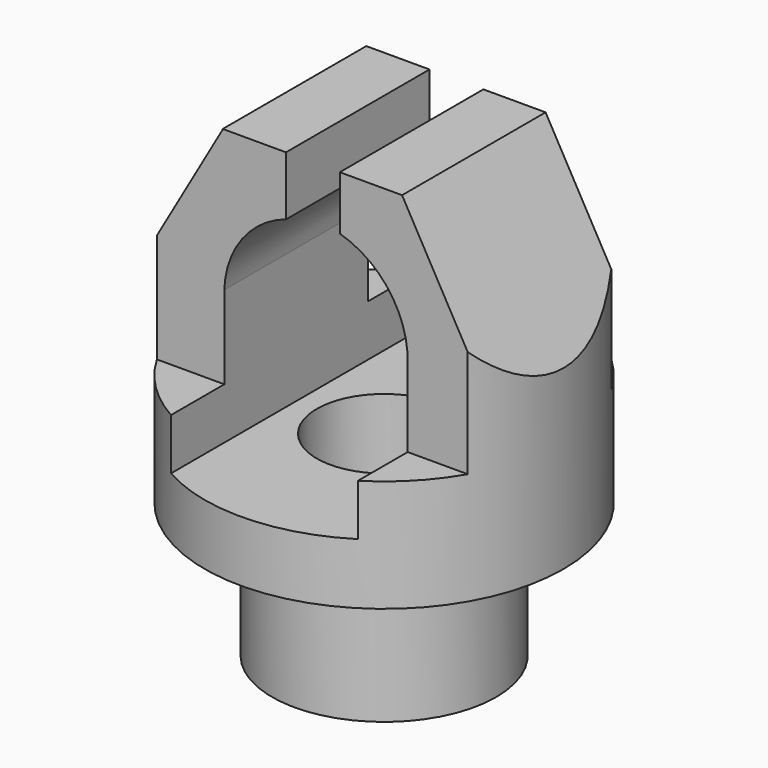
from build123d import *

# Parameters (mm, degrees)
PAD004_DEPTH    = 50
PAD003_DEPTH    = 50
BOX001_W        = 33
BOX001_H        = 20
BOX001_DEPTH    = 51
BOX_W           = 33
BOX_H           = 20
BOX_DEPTH       = 51
BOX002_W        = 33
BOX002_H        = 20
BOX002_DEPTH    = 51
BOX003_W        = 33
BOX003_H        = 20
BOX003_DEPTH    = 51
SKETCH_R        = 25
PAD_DEPTH       = 30
PAD002_DEPTH    = 50
SKETCH001_R     = 40
PAD001_DEPTH    = 75
SKETCH005_W     = 21.319589
SKETCH005_H     = 49.375387
POCKET_DEPTH    = 0.2
SKETCH006_R     = 15
POCKET001_DEPTH = 43.555516


with BuildPart() as pad004:
    # Sketch004 → Pad004 (new body, symmetric)
    with BuildSketch(Plane.XZ):
        Polygon((-40, 70), (-20, 104.849875), (-40, 104.849875), align=None)
    extrude(amount=PAD004_DEPTH, both=True)


with BuildPart() as pad003:
    # Sketch003 → Pad003 (new body, symmetric)
    with BuildSketch(Plane.XZ):
        Polygon((20, 105), (40, 69.438118), (40, 105), align=None)
    extrude(amount=PAD003_DEPTH, both=True)


with BuildPart() as cubo001:
    # Box001 → Box001 (new body)
    with BuildSketch(Plane(origin=(5, -40, 55), x_dir=(1, 0, 0), z_dir=(0, 0, 1))):
        with Locations((16.5, 10)):
            Rectangle(BOX001_W, BOX001_H)
    extrude(amount=BOX001_DEPTH)


with BuildPart() as cubo:
    # Box → Box (new body)
    with BuildSketch(Plane(origin=(5, 20, 55), x_dir=(1, 0, 0), z_dir=(0, 0, 1))):
        with Locations((16.5, 10)):
            Rectangle(BOX_W, BOX_H)
    extrude(amount=BOX_DEPTH)


with BuildPart() as cubo002:
    # Box002 → Box002 (new body)
    with BuildSketch(Plane(origin=(-38, -40, 55), x_dir=(1, 0, 0), z_dir=(0, 0, 1))):
        with Locations((16.5, 10)):
            Rectangle(BOX002_W, BOX002_H)
    extrude(amount=BOX002_DEPTH)


with BuildPart() as cubo003:
    # Box003 → Box003 (new body)
    with BuildSketch(Plane(origin=(-38, 20, 55), x_dir=(1, 0, 0), z_dir=(0, 0, 1))):
        with Locations((16.5, 10)):
            Rectangle(BOX003_W, BOX003_H)
    extrude(amount=BOX003_DEPTH)


with BuildPart() as pad:
    # Sketch → Pad (new body)
    with BuildSketch(Plane.XY):
        Circle(SKETCH_R)
    extrude(amount=PAD_DEPTH)


with BuildPart() as pad002:
    # Sketch002 → Pad002 (new body, symmetric)
    with BuildSketch(Plane(origin=(-81, 0, 6), x_dir=(1, 0, 0), z_dir=(0, -1, 0))):
        with BuildLine():
            Line((61.374028, 37.554516), (102.260882, 37.554516))
            Line((102.260882, 37.554516), (102.260882, 66.257331))
            ThreePointArc((102.260882, 66.257331), (98.26163, 79.156523), (87.211113, 86.919851))
            Line((87.211113, 86.919851), (87.11186, 102.554516))
            Line((87.11186, 102.554516), (75.11186, 102.554516))
            Line((75.11186, 102.554516), (75.158353, 85.860966))
            ThreePointArc((75.158353, 85.860966), (65.381997, 78.874221), (61.374028, 67.54603))
            Line((61.374028, 37.554516), (61.374028, 67.54603))
        make_face()
    extrude(amount=PAD002_DEPTH, both=True)


with BuildPart() as pocket001:
    # Pad001 base: copy of Pad
    add(pad.part)

    # Sketch001 → Pad001 (new body)
    with BuildSketch(Plane.XY.offset(30)):
        Circle(SKETCH001_R)
    extrude(amount=PAD001_DEPTH)

    # Cut: cut Pad002
    add(pad002.part, mode=Mode.SUBTRACT)

    # Fusion: union Pad
    add(pad.part)

    # Cut001: cut Cubo003
    add(cubo003.part, mode=Mode.SUBTRACT)

    # Cut002: cut Cubo002
    add(cubo002.part, mode=Mode.SUBTRACT)

    # Cut003: cut Cubo
    add(cubo.part, mode=Mode.SUBTRACT)

    # Cut004: cut Cubo001
    add(cubo001.part, mode=Mode.SUBTRACT)

    # Cut005: cut Pad003
    add(pad003.part, mode=Mode.SUBTRACT)

    # Cut006: cut Pad004
    add(pad004.part, mode=Mode.SUBTRACT)

    # Sketch005 → Pocket (cut)
    with BuildSketch(Plane.XY.offset(105)):
        with Locations((-30.63901, -1.115778)):
            Rectangle(SKETCH005_W, SKETCH005_H)
    extrude(amount=-POCKET_DEPTH, mode=Mode.SUBTRACT)

    # Sketch006 → Pocket001 (cut, through all)
    with BuildSketch(Plane.XY.offset(43.554516)):
        Circle(SKETCH006_R)
    extrude(amount=-POCKET001_DEPTH, mode=Mode.SUBTRACT)


solid = pocket001.part
